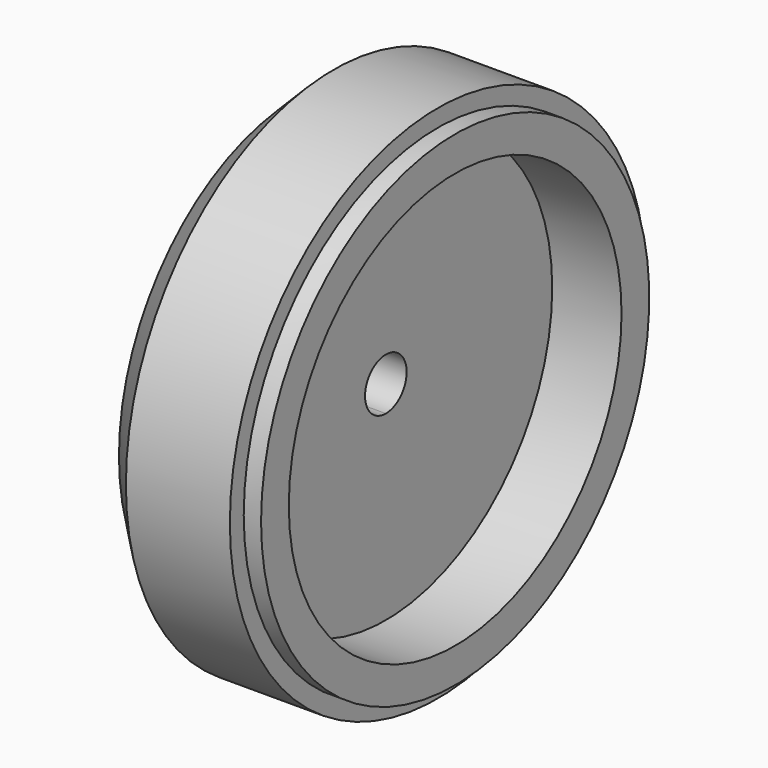
from build123d import *

# Parameters (mm, degrees)
CYLINDER003_R           = 1.5
CYLINDER003_DEPTH       = 22
BODY002_PLACEMENT_ANGLE = 180
CYLINDER002_R           = 2
CYLINDER002_DEPTH       = 3


with BuildPart() as cylinder003:
    # Cylinder003 → Cylinder003 (new body)
    with BuildSketch(Plane(origin=(18, 0, 0), x_dir=(0, 0, -1), z_dir=(1, 0, 0))):
        Circle(CYLINDER003_R)
    extrude(amount=CYLINDER003_DEPTH)


with BuildPart() as body002:
    # Sketch002 → Revolution002 (revolve)
    with BuildSketch(Plane.XY):
        Polygon((0, 1.5), (0, 13), (-2, 15), (-8, 15), (-8, 14), (-9, 14), (-9, 12), (-5, 12), (-5, 1.5), align=None)
    revolve(axis=Axis((0, 0, 0), (1, 0, 0)))


with BuildPart() as body002_1:
    # Body002 placement: moved
    add(body002.part.moved(Location((12, 0, 0))).rotate(Axis((12, 0, 0), (0, 0, 1)), BODY002_PLACEMENT_ANGLE))


with BuildPart() as cut:
    # Cylinder002 → Cylinder002 (new body)
    with BuildSketch(Plane(origin=(9, 0, 0), x_dir=(0, 0, -1), z_dir=(1, 0, 0))):
        Circle(CYLINDER002_R)
    extrude(amount=CYLINDER002_DEPTH)

    # Fusion: union Body002
    add(body002_1.part)


with BuildPart() as cut_1:
    # Fusion placement: moved
    add(cut.part.moved(Location((11, 0, 0))))

    # Cut: cut Cylinder003
    add(cylinder003.part, mode=Mode.SUBTRACT)


solid = cut_1.part
